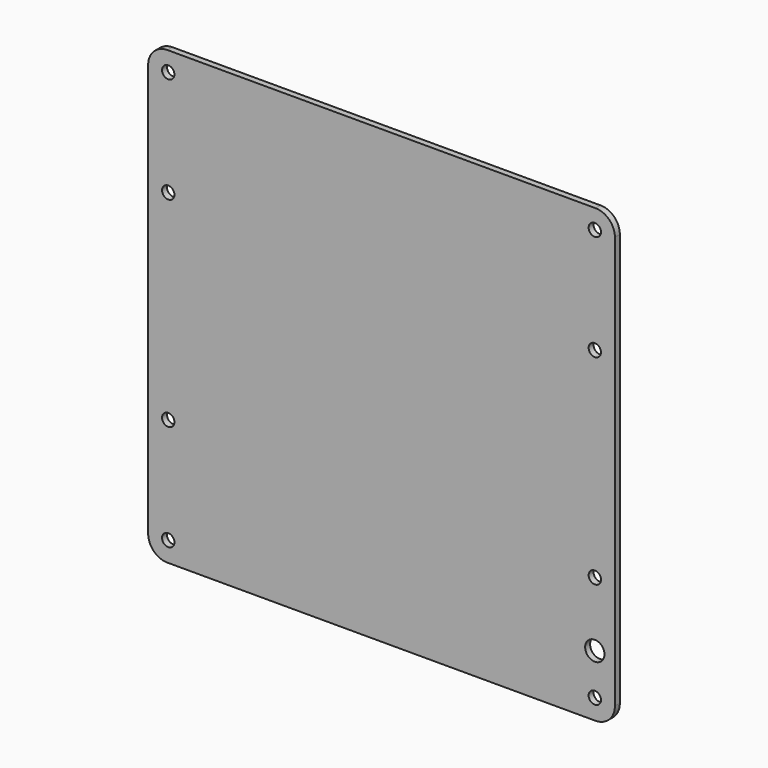
from build123d import *

# Parameters (mm, degrees)
F0_W     = 302
F0_H     = 292
F1_DEPTH = 4
F2_R     = 4
F2_R_2   = 6.25
F3_DEPTH = 25
F4_R     = 12.5


with BuildPart() as f1:
    # F0 (on Front) → F1 (new body)
    with BuildSketch(Plane.XZ):
        with Locations((-4.82562, -59.311821)):
            Rectangle(F0_W, F0_H)
    extrude(amount=F1_DEPTH)

    # F2 (on face) → F3 (cut)
    with BuildSketch(Plane(origin=(0, 0, 0), x_dir=(-1, 0, 0), z_dir=(0, 1, 0))):
        with Locations((-133.17438, -192.311821)):
            Circle(F2_R)
        with Locations((-133.17438, -123.811821)):
            Circle(F2_R)
        with Locations((-133.17438, 5.688179)):
            Circle(F2_R)
        with Locations((-133.17438, 74.188179)):
            Circle(F2_R)
        with Locations((142.82562, -192.311821)):
            Circle(F2_R)
        with Locations((142.82562, -123.811821)):
            Circle(F2_R)
        with Locations((142.82562, 5.688179)):
            Circle(F2_R)
        with Locations((142.82562, 74.188179)):
            Circle(F2_R)
        with Locations((-133.17438, -165.561821)):
            Circle(F2_R_2)
    extrude(amount=-F3_DEPTH, mode=Mode.SUBTRACT)

    # F4
    f4_edges = [f1.edges().sort_by_distance(p)[0] for p in [
        (146.17438, -2, 86.688179),
        (146.17438, -2, -205.311821),
        (-155.82562, -2, -205.311821),
        (-155.82562, -2, 86.688179),
    ]]
    fillet(f4_edges, radius=F4_R)


solid = f1.part
